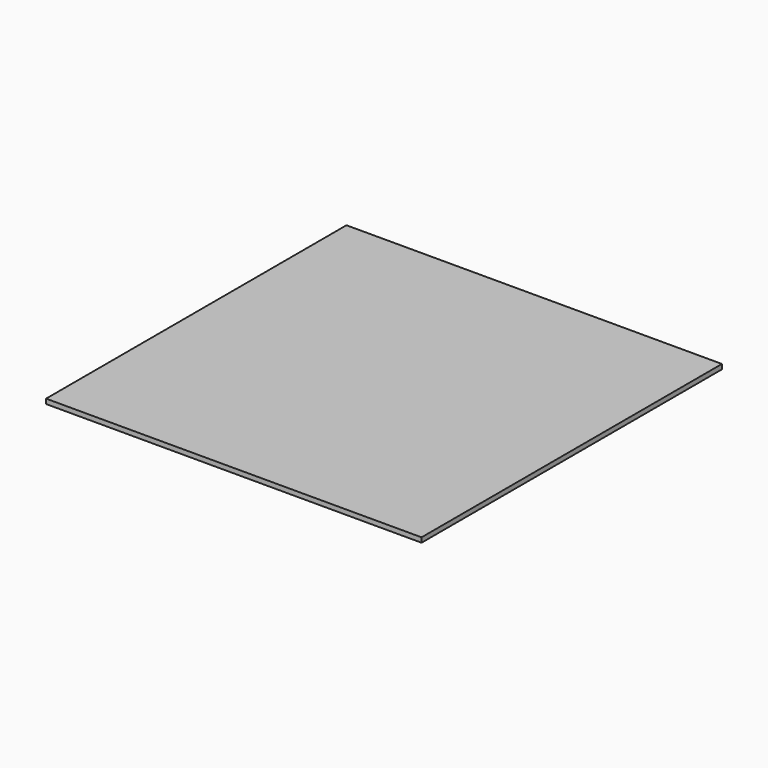
from build123d import *

# Parameters (mm, degrees)
F0_W     = 314
F0_H     = 314
F1_DEPTH = 4
F3_D     = 2
F3_DEPTH = 2
F3_TIP   = 0.600860619
F4_W     = 289.927393198
F4_H     = 290.1662886143
F4_R     = 4.0020322837
F5_DEPTH = 2


with BuildPart() as f1:
    # F0 (on Top) → F1 (new body)
    with BuildSketch(Plane.XY):
        Rectangle(F0_W, F0_H)
    extrude(amount=F1_DEPTH)

    # F3
    with Locations(Plane(origin=(0, 0, 0), x_dir=(1, 0, 0), z_dir=(0, 0, -1))):
        with Locations((0, 0)):
            Hole(F3_D / 2, depth=F3_DEPTH)
            with Locations((0, 0, -(F3_DEPTH + F3_TIP / 2))):  # 118° drill point
                Cone(0, F3_D / 2, F3_TIP, mode=Mode.SUBTRACT)


with BuildPart() as f5:
    # F4 (on face) → F5 (new body)
    with BuildSketch(Plane(origin=(0, 0, 0), x_dir=(1, 0, 0), z_dir=(0, 0, -1))):
        Rectangle(F4_W, F4_H)
        Circle(F4_R, mode=Mode.SUBTRACT)
    extrude(amount=F5_DEPTH)


solid = Compound([f1.part, f5.part])
